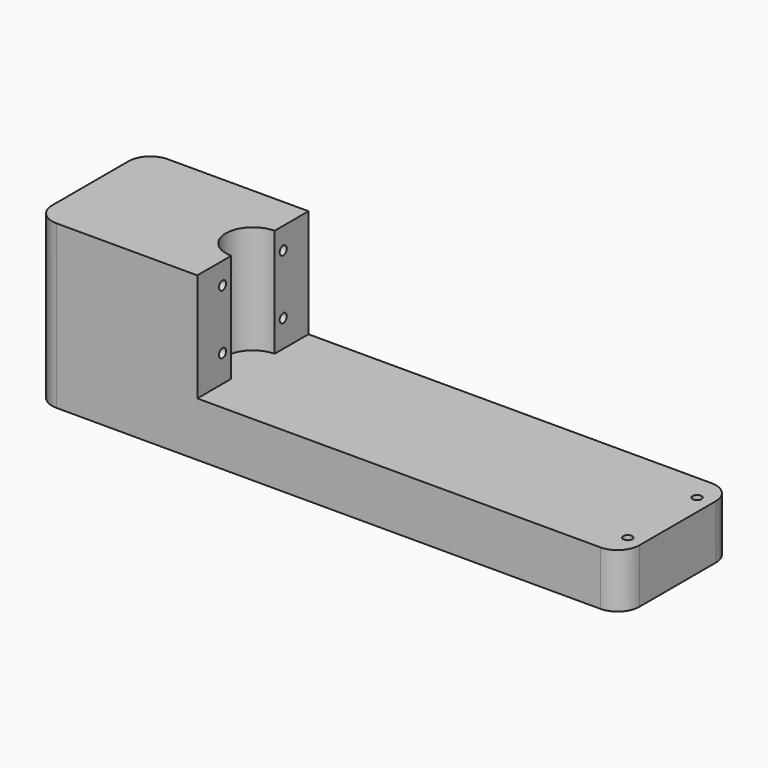
from build123d import *

# Parameters (mm, degrees)
F0_R     = 1.0414
F1_DEPTH = 12.7
F3_DEPTH = 25.4
F5_D     = 2.0828
F7_D     = 2.0828
F7_DEPTH = 15.24
F7_TIP   = 0.6257362487


with BuildPart() as f1:
    # F0 (on Top) → F1 (new body)
    with BuildSketch(Plane.XY):
        with BuildLine():
            ThreePointArc((-68.834, -11.2141), (-67.3461024484, -14.8062024484), (-63.754, -16.2941))
            Line((-63.754, -16.2941), (63.754, -16.2941))
            ThreePointArc((63.754, -16.2941), (67.3461024484, -14.8062024484), (68.834, -11.2141))
            Line((68.834, -11.2141), (68.834, 11.2141))
            ThreePointArc((68.834, 11.2141), (67.3461024484, 14.8062024484), (63.754, 16.2941))
            Line((63.754, 16.2941), (-63.754, 16.2941))
            ThreePointArc((-63.754, 16.2941), (-67.3461024484, 14.8062024484), (-68.834, 11.2141))
            Line((-68.834, 11.2141), (-68.834, -11.2141))
        make_face()
        with Locations((65.278, -10.16)):
            Circle(F0_R, mode=Mode.SUBTRACT)
        with Locations((65.278, 10.16)):
            Circle(F0_R, mode=Mode.SUBTRACT)
    extrude(amount=F1_DEPTH)

    # F2 (on face) → F3 (join)
    with BuildSketch(Plane.XY.offset(12.7)):
        with BuildLine():
            Line((-30.734, 16.2941), (-63.754, 16.2941))
            ThreePointArc((-63.754, 16.2941), (-67.3461024484, 14.8062024484), (-68.834, 11.2141))
            Line((-68.834, 11.2141), (-68.834, -11.2141))
            ThreePointArc((-68.834, -11.2141), (-67.3461024484, -14.8062024484), (-63.754, -16.2941))
            Line((-63.754, -16.2941), (-30.734, -16.2941))
            Line((-30.734, -16.2941), (-30.734, -6.35))
            ThreePointArc((-30.734, -6.35), (-37.084, 0), (-30.734, 6.35))
            Line((-30.734, 6.35), (-30.734, 16.2941))
        make_face()
    extrude(amount=F3_DEPTH)

    # F5 (through all)
    with Locations(Plane(origin=(-68.834, 0, 0), x_dir=(0, -1, 0), z_dir=(-1, 0, 0))):
        with Locations((-8.89, 33.02), (-8.89, 19.05), (8.89, 33.02), (8.89, 19.05)):
            Hole(F5_D / 2)

    # F7
    with Locations(Plane(origin=(0, 0, 0), x_dir=(1, 0, 0), z_dir=(0, 0, -1))):
        with Locations((-65.278, 10.16), (-65.278, -10.16)):
            Hole(F7_D / 2, depth=F7_DEPTH)
            with Locations((0, 0, -(F7_DEPTH + F7_TIP / 2))):  # 118° drill point
                Cone(0, F7_D / 2, F7_TIP, mode=Mode.SUBTRACT)


solid = f1.part
